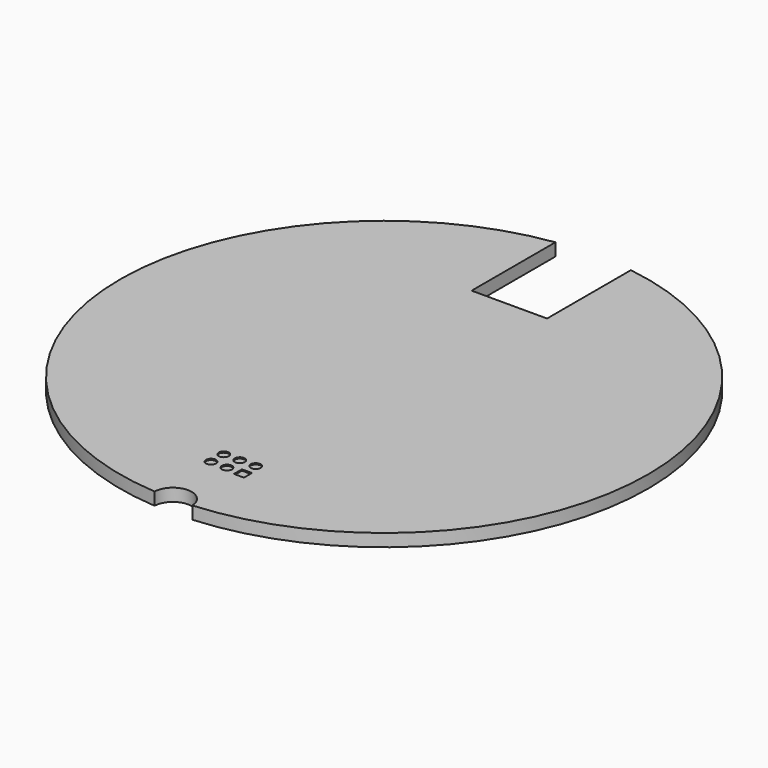
from build123d import *

# Parameters (mm, degrees)
F1_DEPTH = 1
F3_R     = 0.4
F3_W     = 0.8
F3_H     = 0.8
F4_DEPTH = 0.1


with BuildPart() as f1:
    # F0 (on Top) → F1 (new body)
    with BuildSketch(Plane.XY):
        with BuildLine():
            ThreePointArc((-1.499043, -20.946429), (0, -19.5), (1.499043, -20.946429))
            ThreePointArc((1.499043, -20.946429), (20.98643, -0.754827), (3, 20.78461))
            Line((3, 20.78461), (3, 12.45))
            Line((3, 12.45), (-3, 12.45))
            Line((-3, 12.45), (-3, 20.78461))
            ThreePointArc((-3, 20.78461), (-20.98643, -0.754827), (-1.499043, -20.946429))
        make_face()
    extrude(amount=F1_DEPTH)

    # F3 (on face) → F4 (cut)
    with BuildSketch(Plane.XY.offset(1)):
        with Locations((0, -15.62)):
            Circle(F3_R)
        with Locations((-1.27, -15.62)):
            Circle(F3_R)
        with Locations((1.27, -14.35)):
            Circle(F3_R)
        with Locations((0, -14.35)):
            Circle(F3_R)
        with Locations((-1.27, -14.35)):
            Circle(F3_R)
        with Locations((1.27, -15.62)):
            Rectangle(F3_W, F3_H)
    extrude(amount=-F4_DEPTH, mode=Mode.SUBTRACT)


solid = f1.part
